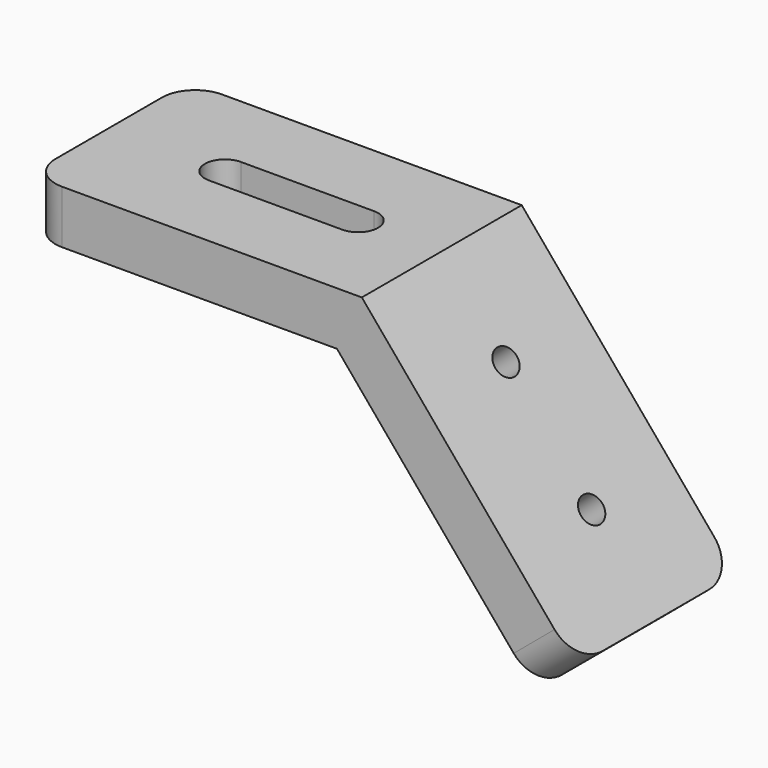
from build123d import *

# Parameters (mm, degrees)
F1_DEPTH = 15
F3_DEPTH = 43.4455230334
F5_D     = 4
F6_R     = 5


with BuildPart() as f1:
    # F0 (on Front) → F1 (new body, symmetric)
    with BuildSketch(Plane.XZ):
        Polygon((50, 0), (0, 0), (0, -8), (46.2695387348, -8), (76.0110249394, -43.4445230334), (82.1393804843, -38.3022221559), align=None)
    extrude(amount=F1_DEPTH, both=True)

    # F2 (on face) → F3 (cut, through all)
    with BuildSketch(Plane.XY):
        with BuildLine():
            ThreePointArc((17.4500849098, 3), (14.4500849098, 0), (17.4500849098, -3))
            Line((17.4500849098, -3), (37.4500849098, -3))
            ThreePointArc((37.4500849098, -3), (40.4500849098, 0), (37.4500849098, 3))
            Line((37.4500849098, 3), (17.4500849098, 3))
        make_face()
    extrude(amount=-F3_DEPTH, mode=Mode.SUBTRACT)

    # F5 (through all)
    with Locations(Plane(origin=(29.3412044417, 0, 24.6201938253), x_dir=(0, 1, 0), z_dir=(0.7660444431, 0, 0.6427876097))):
        with Locations((0, -47.1393804843), (0, -67.1393804843)):
            Hole(F5_D / 2)

    # F6
    f6_edges = [f1.edges().sort_by_distance(p)[0] for p in [
        (79.075203, -15, -40.873373),
        (79.075203, 15, -40.873373),
        (0, 15, -4),
        (0, -15, -4),
    ]]
    fillet(f6_edges, radius=F6_R)


solid = f1.part
